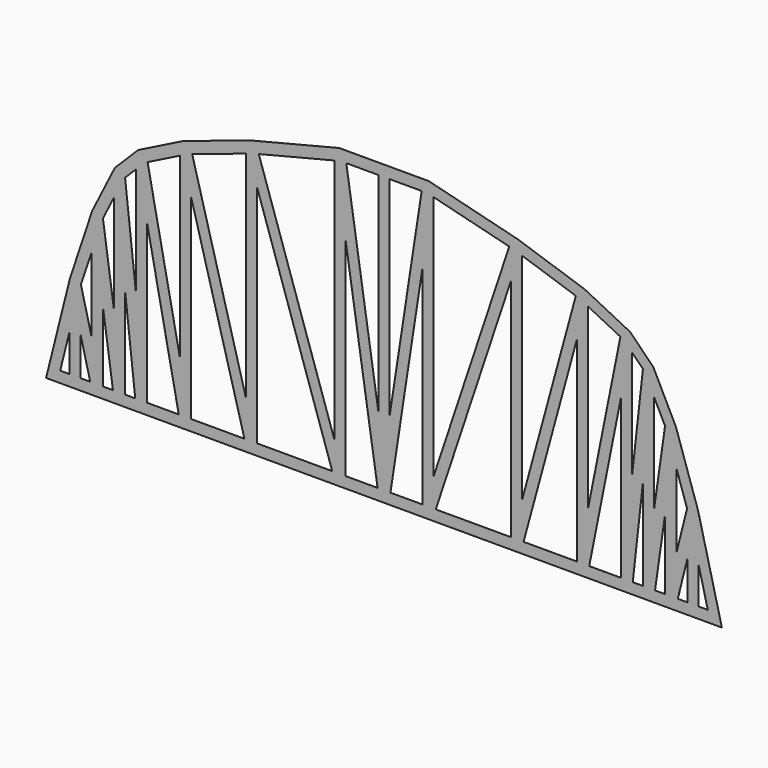
from build123d import *

# Parameters (mm, degrees)
F1_DEPTH = 0.00254


with BuildPart() as f1:
    # F0 (on Front) → F1 (new body)
    with BuildSketch(Plane.XZ):
        Polygon((0, -3.175), (0, 0), (0, 165.1), (0, 168.275), (-25.79086, 168.275), (-30.657426, 167.058359), (-77.088345, 155.450629), (-115.518084, 142.640716), (-119.911346, 140.444085), (-141.58074, 129.609388), (-155.009388, 116.18074), (-168.040716, 90.118084), (-180.850629, 51.688345), (-193.772715, 0), (-194.566465, -3.175), align=None)
        Polygon((-180.975, 3.175), (-186.433535, 3.175), (-180.975, 25.00914), align=None, mode=Mode.SUBTRACT)
        Polygon((-169.166465, 3.175), (-174.625, 3.175), (-174.625, 25.00914), align=None, mode=Mode.SUBTRACT)
        Polygon((-161.925, 3.175), (-161.925, 44.22436), (-156.060806, 3.175), align=None, mode=Mode.SUBTRACT)
        Polygon((-149.225, 56.974152), (-143.247316, 3.175), (-149.225, 3.175), align=None, mode=Mode.SUBTRACT)
        Polygon((-168.275, 25.79086), (-174.495558, 50.673094), (-168.275, 69.334768), align=None, mode=Mode.SUBTRACT)
        Polygon((-136.525, 3.175), (-136.525, 94.935613), (-118.172877, 3.175), align=None, mode=Mode.SUBTRACT)
        Polygon((-155.575, 44.67564), (-161.816649, 88.367186), (-155.575, 100.850484), align=None, mode=Mode.SUBTRACT)
        Polygon((-80.35687, 3.175), (-111.125, 3.175), (-111.125, 115.991477), align=None, mode=Mode.SUBTRACT)
        Polygon((-73.025, 3.175), (-73.025, 132.834768), (-29.805077, 3.175), align=None, mode=Mode.SUBTRACT)
        Polygon((-3.700816, 3.175), (-22.225, 3.175), (-22.225, 123.582198), align=None, mode=Mode.SUBTRACT)
        Polygon((-142.875, 57.325848), (-149.075902, 113.13397), (-142.875, 119.334872), align=None, mode=Mode.SUBTRACT)
        Polygon((-117.475, 32.064387), (-136.111065, 125.24471), (-117.475, 134.562742), align=None, mode=Mode.SUBTRACT)
        Polygon((-79.375, 23.708523), (-110.4466, 137.637723), (-79.375, 147.994923), align=None, mode=Mode.SUBTRACT)
        Polygon((-72.103709, 150.151358), (-28.575, 161.033534), (-28.575, 19.565232), align=None, mode=Mode.SUBTRACT)
        Polygon((-21.699187, 161.925016), (-3.175, 161.925109), (-3.175, 41.517802), align=None, mode=Mode.SUBTRACT)
        Polygon((-75.311655, 149.349371), (-75.195977, 149.38793), (-75.193011, 149.379032), align=None, mode=Mode.SUBTRACT)
        Polygon((0, 165.1), (0, 0), (0, -3.175), (194.566465, -3.175), (193.772715, 0), (180.850629, 51.688345), (168.040716, 90.118084), (155.009388, 116.18074), (141.58074, 129.609388), (119.911346, 140.444085), (115.518084, 142.640716), (77.088345, 155.450629), (30.657426, 167.058359), (25.79086, 168.275), (0, 168.275), align=None)
        Polygon((174.625, 25.00914), (174.625, 3.175), (169.166465, 3.175), align=None, mode=Mode.SUBTRACT)
        Polygon((180.975, 25.00914), (186.433535, 3.175), (180.975, 3.175), align=None, mode=Mode.SUBTRACT)
        Polygon((161.925, 44.22436), (161.925, 3.175), (156.060806, 3.175), align=None, mode=Mode.SUBTRACT)
        Polygon((149.225, 56.974152), (149.225, 3.175), (143.247316, 3.175), align=None, mode=Mode.SUBTRACT)
        Polygon((111.125, 115.991477), (111.125, 3.175), (80.35687, 3.175), align=None, mode=Mode.SUBTRACT)
        Polygon((3.700816, 3.175), (22.225, 123.582198), (22.225, 3.175), align=None, mode=Mode.SUBTRACT)
        Polygon((73.025, 3.175), (29.805077, 3.175), (73.025, 132.834768), align=None, mode=Mode.SUBTRACT)
        Polygon((118.172877, 3.175), (136.525, 94.935613), (136.525, 3.175), align=None, mode=Mode.SUBTRACT)
        Polygon((174.495558, 50.673094), (168.275, 25.79086), (168.275, 69.334768), align=None, mode=Mode.SUBTRACT)
        Polygon((155.575, 100.850484), (161.816649, 88.367186), (155.575, 44.67564), align=None, mode=Mode.SUBTRACT)
        Polygon((21.699187, 161.925016), (3.175, 41.517802), (3.175, 161.925109), align=None, mode=Mode.SUBTRACT)
        Polygon((28.575, 161.033534), (72.103709, 150.151358), (28.575, 19.565232), align=None, mode=Mode.SUBTRACT)
        Polygon((110.4466, 137.637723), (79.375, 23.708523), (79.375, 147.994923), align=None, mode=Mode.SUBTRACT)
        Polygon((117.475, 32.064387), (117.475, 134.562742), (136.111065, 125.24471), align=None, mode=Mode.SUBTRACT)
        Polygon((142.875, 119.334872), (149.075902, 113.13397), (142.875, 57.325848), align=None, mode=Mode.SUBTRACT)
        Polygon((75.193011, 149.379032), (75.195977, 149.38793), (75.311655, 149.349371), align=None, mode=Mode.SUBTRACT)
    extrude(amount=F1_DEPTH)


solid = f1.part
